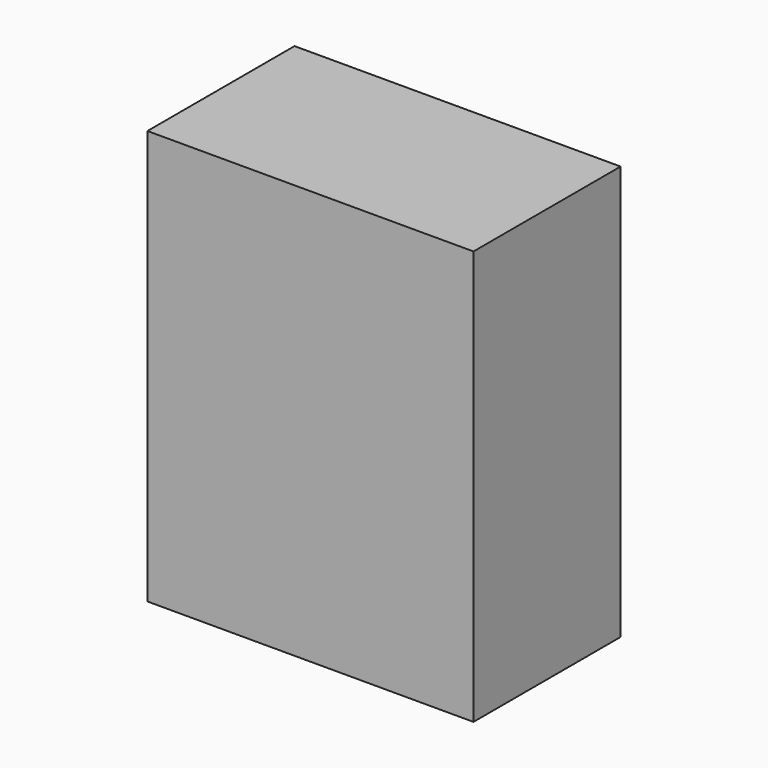
from build123d import *

# Parameters (mm, degrees)
F0_W          = 90.0792330503
F0_H          = 114.4249662757
F1_DEPTH      = 50.8
F2_R          = 6.4323639035
F3_DEPTH      = 50.8
F3_DEPTH_BACK = 25.4


with BuildPart() as f1:
    # F0 (on Front) → F1 (new body)
    with BuildSketch(Plane.XZ):
        with Locations((1.1534392834, -0.5476027727)):
            Rectangle(F0_W, F0_H)
    extrude(amount=F1_DEPTH)

    # F2 (on Front) → F3 (cut, two sides)
    with BuildSketch(Plane.XZ) as f3_sk:
        with Locations((0, 27.8135836124)):
            Circle(F2_R)
        Circle(F2_R)
        with Locations((0, -29.0388520807)):
            Circle(F2_R)
    extrude(amount=-F3_DEPTH, mode=Mode.SUBTRACT)
    extrude(f3_sk.sketch, amount=F3_DEPTH_BACK, mode=Mode.SUBTRACT)


solid = f1.part
